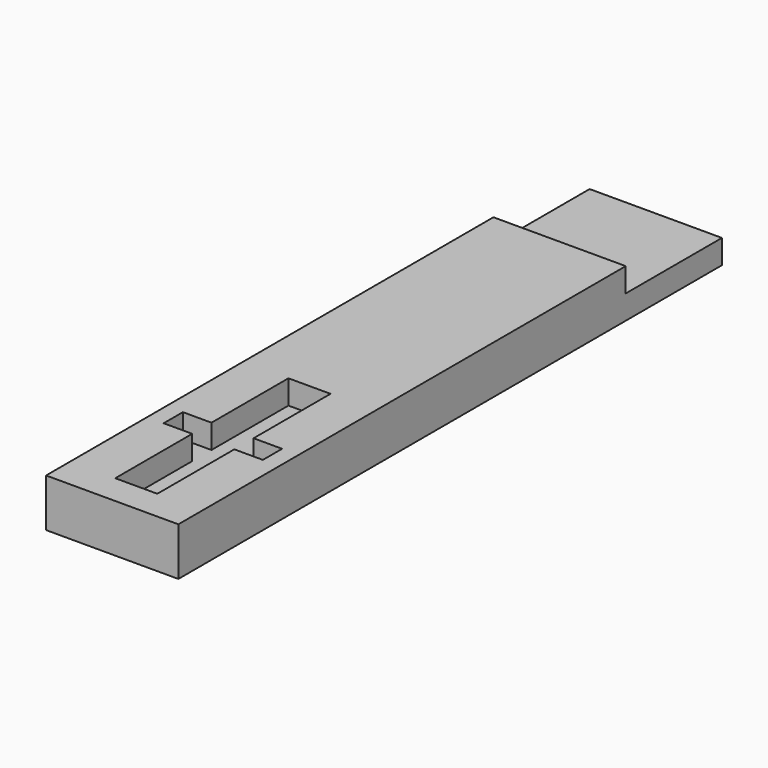
from build123d import *

# Parameters (mm, degrees)
F1_DEPTH = 8
F0_W     = 11
F0_H     = 20
F0_W_2   = 7
F0_H_2   = 16
F2_DEPTH = 4


with BuildPart() as f1:
    # F0 (on Top) → F1 (new body)
    with BuildSketch(Plane.XY):
        Polygon((11, -46.5), (11, 46.5), (0, 46.5), (-11, 46.5), (-11, -46.5), align=None)
        Polygon((8.25, -21.494463), (8.25, -25.494463), (3.5, -25.494463), (3.5, -41.494463), (-3.5, -41.494463), (-3.5, -25.494463), (-8.25, -25.494463), (-8.25, -21.494463), (-3.5, -21.494463), (-3.5, -5.494463), (3.5, -5.494463), (3.5, -21.494463), align=None, mode=Mode.SUBTRACT)
        Polygon((11, -46.5), (11, 46.5), (0, 46.5), (-11, 46.5), (-11, -46.5), align=None)
        Polygon((8.25, -21.494463), (8.25, -25.494463), (3.5, -25.494463), (3.5, -41.494463), (-3.5, -41.494463), (-3.5, -25.494463), (-8.25, -25.494463), (-8.25, -21.494463), (-3.5, -21.494463), (-3.5, -5.494463), (3.5, -5.494463), (3.5, -21.494463), align=None, mode=Mode.SUBTRACT)
    extrude(amount=F1_DEPTH)

    # F0 (on Top) → F2 (join)
    with BuildSketch(Plane.XY):
        with Locations((5.5, 56.5)):
            Rectangle(F0_W, F0_H)
        with Locations((0, -13.494463)):
            Rectangle(F0_W_2, F0_H_2)
        Polygon((3.5, -25.494463), (8.25, -25.494463), (8.25, -21.494463), (3.5, -21.494463), (-3.5, -21.494463), (-8.25, -21.494463), (-8.25, -25.494463), (-3.5, -25.494463), align=None)
        with Locations((0, -33.494463)):
            Rectangle(F0_W_2, F0_H_2)
        with Locations((-5.5, 56.5)):
            Rectangle(F0_W, F0_H)
    extrude(amount=F2_DEPTH)


solid = f1.part
